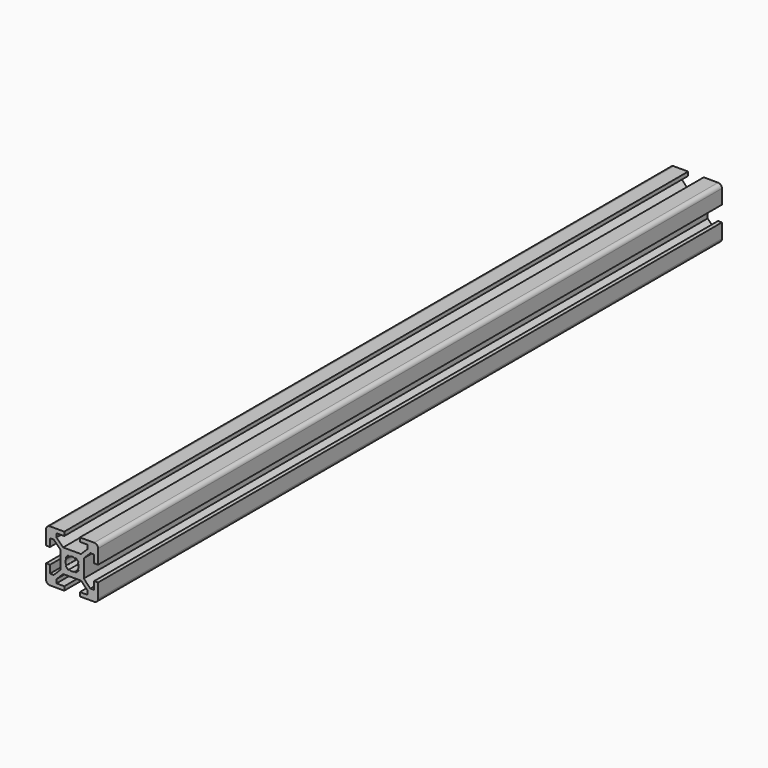
from build123d import *

# Parameters (mm, degrees)
F1_DEPTH = 300


with BuildPart() as f1:
    # F0 (on Front) → F1 (new body)
    with BuildSketch(Plane.XZ):
        with BuildLine():
            Line((3, -10), (8.5, -10))
            ThreePointArc((8.5, -10), (9.5606601718, -9.5606601718), (10, -8.5))
            Line((10, -8.5), (10, -3))
            Line((10, -3), (8.5, -3))
            Line((8.5, -3), (8.5, -6))
            Line((8.5, -6), (7.0606601718, -6))
            Line((7.0606601718, -6), (4.5, -3.4393398282))
            Line((4.5, -3.4393398282), (4.5, 3.4393398282))
            Line((4.5, 3.4393398282), (7.0606601718, 6))
            Line((7.0606601718, 6), (8.5, 6))
            Line((8.5, 6), (8.5, 3))
            Line((8.5, 3), (10, 3))
            Line((10, 3), (10, 8.5))
            ThreePointArc((10, 8.5), (9.5606601718, 9.5606601718), (8.5, 10))
            Line((8.5, 10), (3, 10))
            Line((3, 10), (3, 8.5))
            Line((3, 8.5), (6, 8.5))
            Line((6, 8.5), (6, 7.0606601718))
            Line((6, 7.0606601718), (3.4393398282, 4.5))
            Line((3.4393398282, 4.5), (-3.4393398282, 4.5))
            Line((-3.4393398282, 4.5), (-6, 7.0606601718))
            Line((-6, 7.0606601718), (-6, 8.5))
            Line((-6, 8.5), (-3, 8.5))
            Line((-3, 8.5), (-3, 10))
            Line((-3, 10), (-8.5, 10))
            ThreePointArc((-8.5, 10), (-9.5606601718, 9.5606601718), (-10, 8.5))
            Line((-10, 8.5), (-10, 3))
            Line((-10, 3), (-8.5, 3))
            Line((-8.5, 3), (-8.5, 6))
            Line((-8.5, 6), (-7.0606601718, 6))
            Line((-7.0606601718, 6), (-4.5, 3.4393398282))
            Line((-4.5, 3.4393398282), (-4.5, -3.4393398282))
            Line((-4.5, -3.4393398282), (-7.0606601718, -6))
            Line((-7.0606601718, -6), (-8.5, -6))
            Line((-8.5, -6), (-8.5, -3))
            Line((-8.5, -3), (-10, -3))
            Line((-10, -3), (-10, -8.5))
            ThreePointArc((-10, -8.5), (-9.5606601718, -9.5606601718), (-8.5, -10))
            Line((-8.5, -10), (-3, -10))
            Line((-3, -10), (-3, -8.5))
            Line((-3, -8.5), (-6, -8.5))
            Line((-6, -8.5), (-6, -7.0606601718))
            Line((-6, -7.0606601718), (-3.4393398282, -4.5))
            Line((-3.4393398282, -4.5), (3.4393398282, -4.5))
            Line((3.4393398282, -4.5), (6, -7.0606601718))
            Line((6, -7.0606601718), (6, -8.5))
            Line((6, -8.5), (3, -8.5))
            Line((3, -8.5), (3, -10))
        make_face()
        with BuildLine():
            ThreePointArc((-1.1560121095, 2.2166722813), (0, 2.5), (1.1560121095, 2.2166722813))
            Line((1.1560121095, 2.2166722813), (1.4393398282, 2.5))
            Line((1.4393398282, 2.5), (2.5, 1.4393398282))
            Line((2.5, 1.4393398282), (2.2166722813, 1.1560121095))
            ThreePointArc((2.2166722813, 1.1560121095), (2.5, 0), (2.2166722813, -1.1560121095))
            Line((2.2166722813, -1.1560121095), (2.5, -1.4393398282))
            Line((2.5, -1.4393398282), (1.4393398282, -2.5))
            Line((1.4393398282, -2.5), (1.1560121095, -2.2166722813))
            ThreePointArc((1.1560121095, -2.2166722813), (0, -2.5), (-1.1560121095, -2.2166722813))
            Line((-1.1560121095, -2.2166722813), (-1.4393398282, -2.5))
            Line((-1.4393398282, -2.5), (-2.5, -1.4393398282))
            Line((-2.5, -1.4393398282), (-2.2166722813, -1.1560121095))
            ThreePointArc((-2.2166722813, -1.1560121095), (-2.5, 0), (-2.2166722813, 1.1560121095))
            Line((-2.2166722813, 1.1560121095), (-2.5, 1.4393398282))
            Line((-2.5, 1.4393398282), (-1.4393398282, 2.5))
            Line((-1.4393398282, 2.5), (-1.1560121095, 2.2166722813))
        make_face(mode=Mode.SUBTRACT)
    extrude(amount=F1_DEPTH)


solid = f1.part
